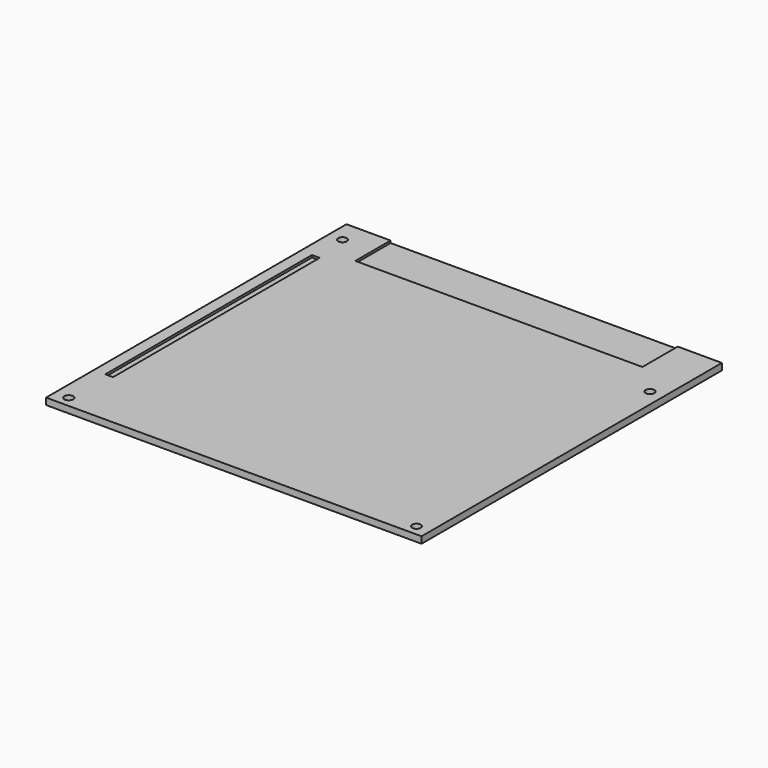
from build123d import *

# Parameters (mm, degrees)
F0_W     = 170
F0_H     = 170
F0_R     = 1.98
F1_DEPTH = 3
F2_W     = 130
F2_H     = 20
F3_DEPTH = 1
F4_W     = 3.516979
F4_H     = 117.000129
F5_DEPTH = 1


with BuildPart() as f1:
    # F0 (on Top) → F1 (new body)
    with BuildSketch(Plane.XY):
        Rectangle(F0_W, F0_H)
        with Locations((-78.65, -80.1)):
            Circle(F0_R, mode=Mode.SUBTRACT)
        with Locations((78.83, -80.1)):
            Circle(F0_R, mode=Mode.SUBTRACT)
        with Locations((-78.65, 74.84)):
            Circle(F0_R, mode=Mode.SUBTRACT)
        with Locations((78.83, 51.98)):
            Circle(F0_R, mode=Mode.SUBTRACT)
    extrude(amount=F1_DEPTH)

    # F2 (on face) → F3 (cut)
    with BuildSketch(Plane.XY.offset(3)):
        with Locations((0, 75)):
            Rectangle(F2_W, F2_H)
    extrude(amount=-F3_DEPTH, mode=Mode.SUBTRACT)

    # F4 (on face) → F5 (cut, through all)
    with BuildSketch(Plane.XY.offset(3)):
        with Locations((-78.040425, 0.470964)):
            Rectangle(F4_W, F4_H)
    extrude(amount=-F5_DEPTH, mode=Mode.SUBTRACT)


solid = f1.part
